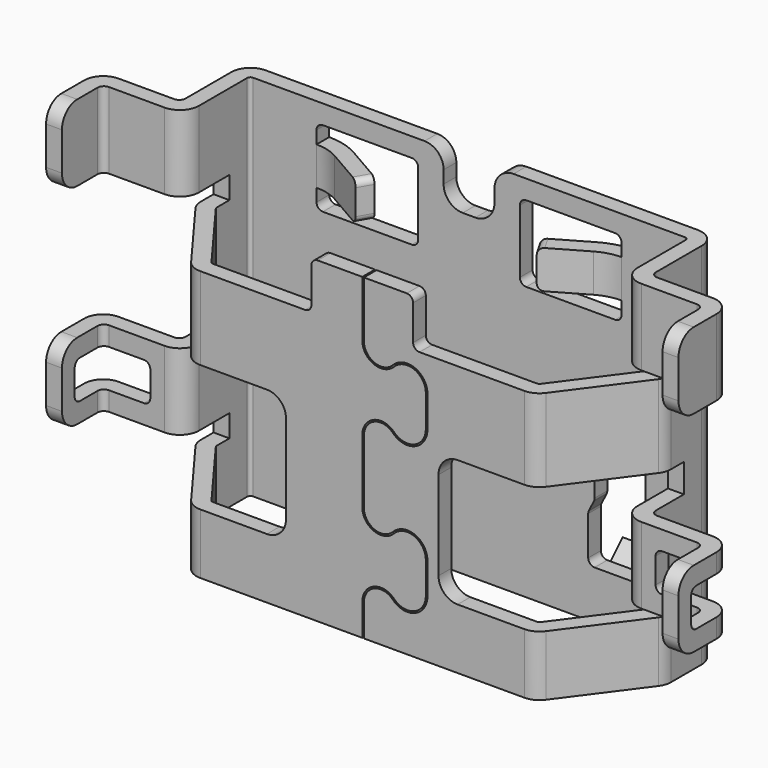
from build123d import *

# Parameters (mm, degrees)
PAD_DEPTH           = 5.8
FILLET_R            = 0.3
POCKET_DEPTH        = 5.801
SKETCH002_W         = 2.5
SKETCH002_H         = 2
SKETCH002_W_2       = 2.75
SKETCH002_H_2       = 1.55
POCKET001_DEPTH     = 1.7
PAD001_DEPTH        = 1.2
LINEARPATTERN_COUNT = 2
LINEARPATTERN_PITCH = 3.3
SKETCH004_W         = 1.9
SKETCH004_H         = 0.8
POCKET002_DEPTH     = 0.25
SKETCH005_W         = 0.8
SKETCH005_H         = 0.8
POCKET003_DEPTH     = 0.25
SKETCH006_W         = 0.8
SKETCH006_H         = 0.6
POCKET004_DEPTH     = 1
SKETCH007_W         = 1.6
SKETCH007_H         = 1.2
POCKET005_DEPTH     = 2.351
PAD002_DEPTH        = 0.3
PAD003_DEPTH        = 0.35
SKETCH010_W         = 1
SKETCH010_H         = 0.25
POCKET006_DEPTH     = 0.237
SKETCH011_W         = 0.85
SKETCH011_H         = 0.55
POCKET007_DEPTH     = 0.1
SKETCH012_W         = 0.15
SKETCH012_H         = 0.25
POCKET008_DEPTH     = 0.05
FILLET001_R         = 0.3
FILLET002_R         = 0.1
FILLET003_R         = 0.1
FILLET004_R         = 0.3
FILLET005_R         = 0.1
FILLET006_R         = 0.05
FILLET007_R         = 0.3
FILLET008_R         = 0.1
FILLET009_R         = 0.1
POCKET009_DEPTH     = 0.25


with BuildPart() as part:
    # Sketch → Pad (new body)
    with BuildSketch(Plane.XY):
        Polygon((-3.7, 1.25), (3.7, 1.25), (3.7, 0.25), (2.7, -1.1), (-2.7, -1.1), (-3.7, 0.25), align=None)
    extrude(amount=PAD_DEPTH)

    # Fillet
    fillet_edges = [part.edges().sort_by_distance(p)[0] for p in [
        (3.7, 1.25, 2.9),
        (3.7, 0.25, 2.9),
        (-3.7, 1.25, 2.9),
        (-3.7, 0.25, 2.9),
        (-2.7, -1.1, 2.9),
        (2.7, -1.1, 2.9),
    ]]
    fillet(fillet_edges, radius=FILLET_R)

    # Sketch001 (on Face5 of Fillet) → Pocket (cut, through all)
    with BuildSketch(Plane.XY.offset(5.8)):
        with BuildLine():
            Line((0, 1), (3.4, 1))
            ThreePointArc((3.45, 0.95), (3.435355, 0.985355), (3.4, 1))
            Line((3.45, 0.349009), (3.45, 0.95))
            ThreePointArc((3.440178, 0.319247), (3.447481, 0.333339), (3.45, 0.349009))
            Line((2.589059, -0.829763), (3.440178, 0.319247))
            ThreePointArc((2.548883, -0.85), (2.571375, -0.844655), (2.589059, -0.829763))
            Line((0, -0.85), (2.548883, -0.85))
            Line((0, -0.85), (-2.548883, -0.85))
            ThreePointArc((-2.589059, -0.829763), (-2.571375, -0.844655), (-2.548883, -0.85))
            Line((-3.440178, 0.319247), (-2.589059, -0.829763))
            ThreePointArc((-3.45, 0.349009), (-3.447481, 0.333339), (-3.440178, 0.319247))
            Line((-3.45, 0.95), (-3.45, 0.349009))
            ThreePointArc((-3.4, 1), (-3.435355, 0.985355), (-3.45, 0.95))
            Line((0, 1), (-3.4, 1))
        make_face()
    extrude(amount=-POCKET_DEPTH, mode=Mode.SUBTRACT)

    # Sketch002 (on Face14 of Pocket) → Pocket001 (cut)
    with BuildSketch(Plane.XZ.offset(1.1)):
        with Locations((2.45, 1.95)):
            Rectangle(SKETCH002_W, SKETCH002_H)
        with Locations((2.325, 5.025)):
            Rectangle(SKETCH002_W_2, SKETCH002_H_2)
        with Locations((-2.325, 5.025)):
            Rectangle(SKETCH002_W_2, SKETCH002_H_2)
        with Locations((-2.45, 1.95)):
            Rectangle(SKETCH002_W, SKETCH002_H)
    extrude(amount=-POCKET001_DEPTH, mode=Mode.SUBTRACT)

    # Sketch003 (on Face5 of Pocket001) → Pad001 (join)
    with BuildSketch(Plane.XY.offset(5.8)):
        with BuildLine():
            Line((3.45, 0), (3.45, 0.6))
            Line((3.45, 0.6), (3.7, 0.6))
            Line((3.7, 0.6), (3.7, 0.05))
            ThreePointArc((3.7, 0.05), (3.729289, -0.020711), (3.8, -0.05))
            Line((4.675, -0.05), (3.8, -0.05))
            ThreePointArc((4.975, -0.35), (4.887132, -0.137868), (4.675, -0.05))
            Line((4.975, -0.35), (4.975, -1.1))
            Line((4.975, -1.1), (4.725, -1.1))
            Line((4.725, -1.1), (4.725, -0.4))
            ThreePointArc((4.725, -0.4), (4.695711, -0.329289), (4.625, -0.3))
            Line((4.625, -0.3), (3.75, -0.3))
            ThreePointArc((3.45, 0), (3.537868, -0.212132), (3.75, -0.3))
        make_face()
        with BuildLine():
            Line((-3.7, 0.05), (-3.7, 0.6))
            Line((-3.7, 0.6), (-3.45, 0.6))
            Line((-3.45, 0.6), (-3.45, 0))
            ThreePointArc((-3.75, -0.3), (-3.537868, -0.212132), (-3.45, 0))
            Line((-4.625, -0.3), (-3.75, -0.3))
            ThreePointArc((-4.625, -0.3), (-4.695711, -0.329289), (-4.725, -0.4))
            Line((-4.725, -1.1), (-4.725, -0.4))
            Line((-4.975, -1.1), (-4.725, -1.1))
            Line((-4.975, -0.35), (-4.975, -1.1))
            ThreePointArc((-4.675, -0.05), (-4.887132, -0.137868), (-4.975, -0.35))
            Line((-3.8, -0.05), (-4.675, -0.05))
            ThreePointArc((-3.8, -0.05), (-3.72929, -0.02071), (-3.7, 0.05))
        make_face()
    pad001 = extrude(amount=-PAD001_DEPTH)

    # LinearPattern: Pad001 ×2
    with Locations(*[(0, 0, -i * LINEARPATTERN_PITCH) for i in range(1, LINEARPATTERN_COUNT)]):
        add(pad001)

    # Sketch004 (on Face14 of LinearPattern) → Pocket002 (cut)
    with BuildSketch(Plane.XZ.offset(1.1)):
        with Locations((0, 5.4)):
            Rectangle(SKETCH004_W, SKETCH004_H)
    extrude(amount=-POCKET002_DEPTH, mode=Mode.SUBTRACT)

    # Sketch005 (on Face1 of Pocket002) → Pocket003 (cut)
    with BuildSketch(Plane(origin=(0, 1.25, 0), x_dir=(-1, 0, 0), z_dir=(0, 1, 0))):
        with Locations((0, 5.4)):
            Rectangle(SKETCH005_W, SKETCH005_H)
    extrude(amount=-POCKET003_DEPTH, mode=Mode.SUBTRACT)

    # Sketch006 (on Face102 of Pocket003) → Pocket004 (cut)
    with BuildSketch(Plane(origin=(-4.975, 0, 0), x_dir=(0, -1, 0), z_dir=(-1, 0, 0))):
        with Locations((0.45, 1.9)):
            Rectangle(SKETCH006_W, SKETCH006_H)
    pocket004 = extrude(amount=-POCKET004_DEPTH, mode=Mode.SUBTRACT)

    # Mirrored: Pocket004 across YZ
    add(pocket004.mirror(Plane.YZ), mode=Mode.SUBTRACT)

    # Sketch007 (on Face1 of Mirrored) → Pocket005 (cut, through all)
    with BuildSketch(Plane(origin=(0, 1.25, 0), x_dir=(-1, 0, 0), z_dir=(0, 1, 0))):
        with Locations((1.6, 4.9)):
            Rectangle(SKETCH007_W, SKETCH007_H)
        Polygon((1.975, 1.7), (1.975, 2.7), (2.775, 2.7), (2.775, 1.7), (2.875, 1.5), (2.875, 1), (1.875, 1), (1.875, 1.5), align=None)
        with Locations((-1.6, 4.9)):
            Rectangle(SKETCH007_W, SKETCH007_H)
        Polygon((-2.775, 1.7), (-2.775, 2.7), (-1.975, 2.7), (-1.975, 1.7), (-1.875, 1.5), (-1.875, 1), (-2.875, 1), (-2.875, 1.5), align=None)
    extrude(amount=-POCKET005_DEPTH, mode=Mode.SUBTRACT)

    # Sketch008 (on DatumPlane) → Pad002 (join, symmetric)
    with BuildSketch(Plane(origin=(0, 0, 4.9), x_dir=(1, 0, 0), z_dir=(0, 0, -1))):
        with BuildLine():
            Line((-2.035042, -0.902208), (-1.425, -0.55))
            Line((-1.425, -0.55), (-1.3, -0.766506))
            Line((-1.3, -0.766506), (-1.910048, -1.118718))
            ThreePointArc((-2.4, -1.25), (-2.146382, -1.216611), (-1.910048, -1.118718))
            Line((-2.4, -1), (-2.4, -1.25))
            ThreePointArc((-2.4, -1), (-2.211084, -0.975128), (-2.035042, -0.902208))
        make_face()
    pad002 = extrude(amount=PAD002_DEPTH, both=True)

    # Mirrored001: Pad002 across YZ
    add(pad002.mirror(Plane.YZ))

    # Sketch009 (on DatumPlane) → Pad003 (join, symmetric)
    with BuildSketch(Plane.YZ.offset(-2.375)):
        with BuildLine():
            Line((1.264645, 0.421802), (1.56, 0.717157))
            Line((1.56, 0.717157), (1.56, 0.929289))
            Line((1.56, 0.929289), (1.489289, 1))
            Line((1.489289, 1), (1.087868, 0.598579))
            ThreePointArc((1.087868, 0.598579), (1.022836, 0.501252), (1, 0.386447))
            Line((1, 0.386447), (1.25, 0.386447))
            ThreePointArc((1.264645, 0.421802), (1.253806, 0.405581), (1.25, 0.386447))
        make_face()
    pad003 = extrude(amount=PAD003_DEPTH, both=True)

    # Mirrored002: Pad003 across YZ
    add(pad003.mirror(Plane.YZ))

    # Sketch010 (on Face58 of Mirrored002) → Pocket006 (cut)
    with BuildSketch(Plane.XY.offset(1)):
        with Locations((-2.375, 1.125)):
            Rectangle(SKETCH010_W, SKETCH010_H)
        with Locations((2.375, 1.125)):
            Rectangle(SKETCH010_W, SKETCH010_H)
    extrude(amount=-POCKET006_DEPTH, mode=Mode.SUBTRACT)

    # Sketch011 (on Face2 of Pocket006) → Pocket007 (cut)
    with BuildSketch(Plane(origin=(0, 1.25, 0), x_dir=(-1, 0, 0), z_dir=(0, 1, 0))):
        with Locations((2.425, 3.675)):
            Rectangle(SKETCH011_W, SKETCH011_H)
        with Locations((-2.425, 3.675)):
            Rectangle(SKETCH011_W, SKETCH011_H)
    extrude(amount=-POCKET007_DEPTH, mode=Mode.SUBTRACT)

    # Sketch012 (on Face102 of Pocket007) → Pocket008 (cut)
    with BuildSketch(Plane.XY.offset(4.3)):
        with Locations((-0.875, -0.975)):
            Rectangle(SKETCH012_W, SKETCH012_H)
        with Locations((0.875, -0.975)):
            Rectangle(SKETCH012_W, SKETCH012_H)
    extrude(amount=-POCKET008_DEPTH, mode=Mode.SUBTRACT)

    # Fillet001
    fillet001_edges = [part.edges().sort_by_distance(p)[0] for p in [
        (0.4, 1.125, 5.8),
        (0.4, 1.125, 5),
        (-0.4, 1.125, 5),
        (-0.4, 1.125, 5.8),
    ]]
    fillet(fillet001_edges, radius=FILLET001_R)

    # Fillet002
    fillet002_edges = [part.edges().sort_by_distance(p)[0] for p in [
        (-1.3625, 0.658253, 5.2),
        (-1.3625, 0.658253, 4.6),
        (1.3625, 0.658253, 5.2),
        (1.3625, 0.658253, 4.6),
        (0.8, 1.125, 4.3),
        (-2.4, 1.125, 4.3),
        (2.4, 1.125, 4.3),
        (-0.8, 1.125, 4.3),
        (-0.8, 1.125, 5.5),
        (2.4, 1.125, 5.5),
        (0.8, 1.125, 5.5),
        (-2.4, 1.125, 5.5),
    ]]
    fillet(fillet002_edges, radius=FILLET002_R)

    # Fillet003
    fillet003_edges = [part.edges().sort_by_distance(p)[0] for p in [
        (4.85, -0.85, 1.6),
        (3.975, -0.175, 1.6),
        (4.85, -0.85, 2.2),
        (3.975, -0.175, 2.2),
        (-4.85, -0.85, 2.2),
        (-3.975, -0.175, 2.2),
        (-3.975, -0.175, 1.6),
        (-4.85, -0.85, 1.6),
    ]]
    fillet(fillet003_edges, radius=FILLET003_R)

    # Fillet004
    fillet004_edges = [part.edges().sort_by_distance(p)[0] for p in [
        (4.85, -1.1, 5.8),
        (4.85, -1.1, 2.5),
        (-4.85, -1.1, 5.8),
        (-4.85, -1.1, 2.5),
        (-4.85, -1.1, 4.6),
        (-4.85, -1.1, 1.3),
        (4.85, -1.1, 1.3),
        (4.85, -1.1, 4.6),
    ]]
    fillet(fillet004_edges, radius=FILLET004_R)

    # Fillet005
    fillet005_edges = [part.edges().sort_by_distance(p)[0] for p in [
        (-0.8, -0.975, 5),
        (-0.8, -0.975, 4.25),
        (0.8, -0.975, 5),
        (0.8, -0.975, 4.25),
    ]]
    fillet(fillet005_edges, radius=FILLET005_R)

    # Fillet006
    fillet006_edges = [part.edges().sort_by_distance(p)[0] for p in [
        (-2.425, 1.15, 3.95),
        (-2.85, 1.15, 3.675),
        (-2.425, 1.15, 3.4),
        (-2, 1.15, 3.675),
        (2.425, 1.15, 3.95),
        (2, 1.15, 3.675),
        (2.425, 1.15, 3.4),
        (2.85, 1.15, 3.675),
    ]]
    fillet(fillet006_edges, radius=FILLET006_R)

    # Fillet007
    fillet007_edges = [part.edges().sort_by_distance(p)[0] for p in [
        (-1.2, -0.975, 2.95),
        (-1.2, -0.975, 0.95),
        (1.2, -0.975, 2.95),
        (1.2, -0.975, 0.95),
    ]]
    fillet(fillet007_edges, radius=FILLET007_R)

    # Fillet008
    fillet008_edges = [part.edges().sort_by_distance(p)[0] for p in [
        (2.775, 1.125, 2.7),
        (2.775, 1.125, 1.7),
        (2.875, 1.125, 1.5),
        (1.975, 1.125, 2.7),
        (1.975, 1.125, 1.7),
        (1.875, 1.125, 1.5),
        (2.875, 1.125, 0.763),
        (1.875, 1.125, 0.763),
    ]]
    fillet(fillet008_edges, radius=FILLET008_R)

    # Fillet009
    fillet009_edges = [part.edges().sort_by_distance(p)[0] for p in [
        (-2.875, 1.125, 0.763),
        (-1.875, 1.125, 0.763),
        (-1.975, 1.125, 1.7),
        (-1.875, 1.125, 1.5),
        (-1.975, 1.125, 2.7),
        (-2.775, 1.125, 2.7),
        (-2.775, 1.125, 1.7),
        (-2.875, 1.125, 1.5),
    ]]
    fillet(fillet009_edges, radius=FILLET009_R)

    # Sketch013 (on Face102 of Fillet009) → Pocket009 (cut)
    with BuildSketch(Plane.XZ.offset(1.1)):
        with BuildLine():
            Line((0, 0), (0, 0.5))
            ThreePointArc((0.5, 0.702501), (0.181767, 0.769725), (0, 0.5))
            ThreePointArc((0.5, 0.702501), (0.818233, 0.635277), (1, 0.905002))
            Line((1, 0.905002), (1, 1.405002))
            ThreePointArc((1, 1.405002), (0.818233, 1.674727), (0.5, 1.607503))
            ThreePointArc((0, 1.81), (0.181769, 1.540278), (0.5, 1.607503))
            Line((0, 1.81), (0, 2.81))
            ThreePointArc((0.5, 3.012501), (0.181767, 3.079725), (0, 2.81))
            ThreePointArc((0.5, 3.012501), (0.818233, 2.945277), (1, 3.215002))
            Line((1, 3.215002), (1, 3.715002))
            ThreePointArc((1, 3.715002), (0.818233, 3.984727), (0.5, 3.917503))
            ThreePointArc((0, 4.120004), (0.181767, 3.850279), (0.5, 3.917503))
            Line((0, 4.120004), (0, 5))
            Line((0, 5), (0.025, 5))
            Line((0.025, 5), (0.025, 4.120004))
            ThreePointArc((0.025, 4.120004), (0.191152, 3.873451), (0.482046, 3.9349))
            ThreePointArc((1.025, 3.715002), (0.827617, 4.007899), (0.482046, 3.9349))
            Line((1.025, 3.715002), (1.025, 3.215002))
            ThreePointArc((0.482046, 2.995104), (0.827617, 2.922105), (1.025, 3.215002))
            ThreePointArc((0.482046, 2.995104), (0.191152, 3.056553), (0.025, 2.81))
            Line((0.025, 2.81), (0.025, 1.810011))
            ThreePointArc((0.025, 1.810011), (0.191149, 1.563452), (0.482046, 1.6249))
            ThreePointArc((1.025, 1.405002), (0.827617, 1.697899), (0.482046, 1.6249))
            Line((1.025, 1.405002), (1.025, 0.905002))
            ThreePointArc((0.482046, 0.685104), (0.827617, 0.612105), (1.025, 0.905002))
            ThreePointArc((0.482046, 0.685104), (0.191152, 0.746553), (0.025, 0.5))
            Line((0.025, 0.5), (0.025, 0))
            Line((0.025, 0), (0, 0))
        make_face()
    extrude(amount=-POCKET009_DEPTH, mode=Mode.SUBTRACT)


solid = part.part
